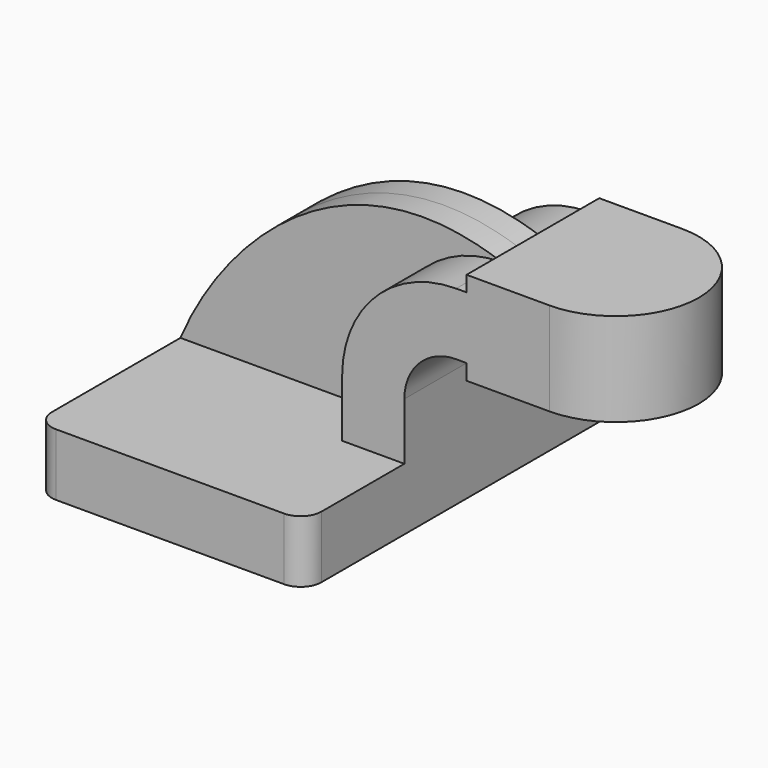
from build123d import *

# Parameters (mm, degrees)
F1_DEPTH = 63.5
F2_DEPTH = 25.4
F3_DEPTH = 7.9375
F0_W     = 25.4
F0_H     = 28.575
F5_R     = 6.35


with BuildPart() as f1:
    # F0 (on Front) → F1 (new body, symmetric)
    with BuildSketch(Plane.XZ):
        Polygon((-41.275, 9.525), (-41.275, -9.525), (41.275, -9.525), (41.275, 9.525), (22.225, 9.525), align=None)
    extrude(amount=F1_DEPTH, both=True)

    # F0 (on Front) → F2 (join, symmetric)
    with BuildSketch(Plane.XZ):
        with BuildLine():
            Line((22.225, 9.525), (41.275, 9.525))
            Line((41.275, 9.525), (41.275, 27.0002))
            ThreePointArc((41.275, 27.0002), (45.92468, 38.22552), (57.15, 42.8752))
            Line((57.15, 42.8752), (60.325, 42.8752))
            Line((60.325, 42.8752), (60.325, 61.9252))
            Line((60.325, 61.9252), (57.15, 61.9252))
            ThreePointArc((57.15, 61.9252), (32.454296, 51.695904), (22.225, 27.0002))
            Line((22.225, 27.0002), (22.225, 9.525))
        make_face()
        Polygon((60.325, 66.675), (60.325, 61.9252), (60.325, 42.8752), (60.325, 38.1), (85.725, 38.1), (85.725, 66.675), align=None)
    extrude(amount=F2_DEPTH, both=True)

    # F0 (on Front) → F3 (join, symmetric)
    with BuildSketch(Plane.XZ):
        with BuildLine():
            add(Edge.make_bspline(
                [(-41.275, 9.525), (-28.23109, 40.560842), (8.36162, 79.393923), (57.15, 61.9252)],
                knots=[0, 0, 0, 0, 111.504536, 111.504536, 111.504536, 111.504536], degree=3))
            Line((-41.275, 9.525), (22.225, 9.525))
            Line((22.225, 9.525), (22.225, 27.0002))
            ThreePointArc((22.225, 27.0002), (32.454296, 51.695904), (57.15, 61.9252))
        make_face()
    extrude(amount=F3_DEPTH, both=True)

    # F0 (on Front) → F4 (revolve)
    with BuildSketch(Plane.XZ):
        with Locations((98.425, 52.3875)):
            Rectangle(F0_W, F0_H)
    revolve(axis=Axis((85.725, 0, 52.3875), (0, 0, 1)))

    # F5
    f5_edges = [f1.edges().sort_by_distance(p)[0] for p in [
        (-41.275, -63.5, 0),
        (41.275, -63.5, 0),
        (41.275, 63.5, 0),
        (-41.275, 63.5, 0),
    ]]
    fillet(f5_edges, radius=F5_R)


solid = f1.part
